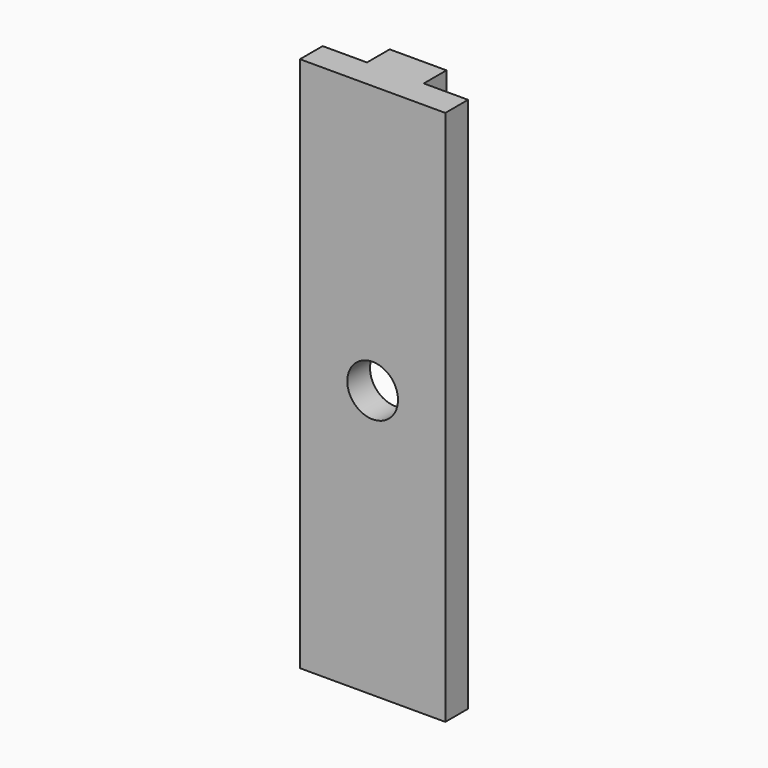
from build123d import *

# Parameters (mm, degrees)
F0_W     = 8.128
F0_H     = 29.972
F0_R     = 1.41732
F1_DEPTH = 1.5875
F2_W     = 3.175
F2_H     = 3.175
F3_DEPTH = 1.5875


with BuildPart() as f1:
    # F0 (on Front) → F1 (new body)
    with BuildSketch(Plane.XZ):
        Rectangle(F0_W, F0_H)
        Circle(F0_R, mode=Mode.SUBTRACT)
    extrude(amount=F1_DEPTH)

    # F2 (on face) → F3 (join)
    with BuildSketch(Plane(origin=(0, 0, 0), x_dir=(-1, 0, 0), z_dir=(0, 1, 0))):
        with Locations((0, 13.3985)):
            Rectangle(F2_W, F2_H)
    extrude(amount=F3_DEPTH)


solid = f1.part
